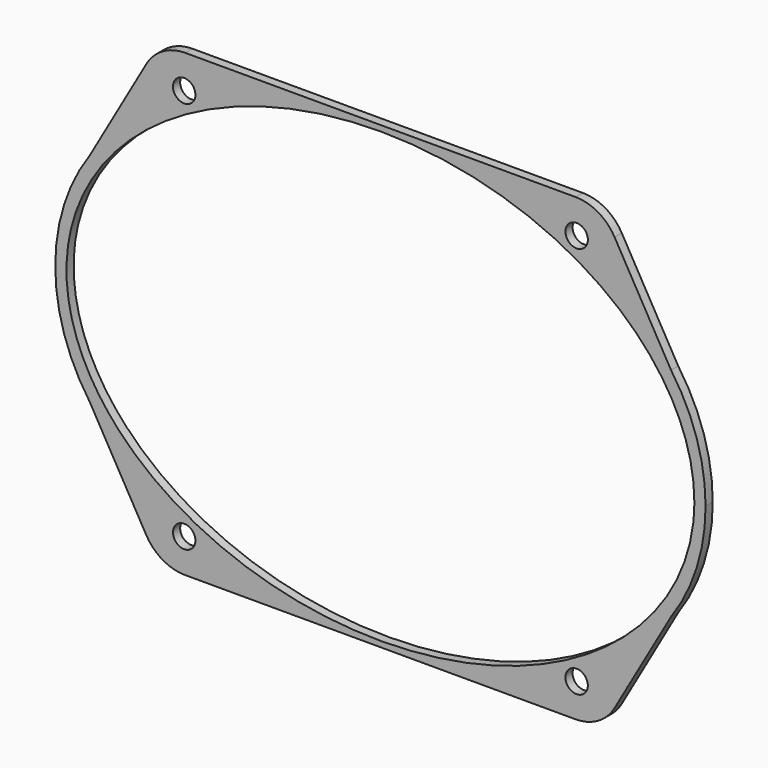
from build123d import *

# Parameters (mm, degrees)
F0_R     = 3.175
F1_DEPTH = 2.54


with BuildPart() as f1:
    # F0 (on Front) → F1 (new body)
    with BuildSketch(Plane.XZ):
        with BuildLine():
            Line((-66.30255, 58.706309), (-82.301346, 30.738717))
            ThreePointArc((-82.301346, 30.738717), (-89.572768, 16.127562), (-92.075, 0))
            ThreePointArc((-92.075, 0), (-89.572768, -16.127562), (-82.301346, -30.738717))
            Line((-82.301346, -30.738717), (-66.30255, -58.706309))
            ThreePointArc((-66.30255, -58.706309), (-61.650711, -63.386045), (-55.278803, -65.1002))
            Line((-55.278803, -65.1002), (0, -65.1002))
            Line((0, -65.1002), (55.278803, -65.1002))
            ThreePointArc((55.278803, -65.1002), (61.650711, -63.386045), (66.30255, -58.706309))
            Line((66.30255, -58.706309), (82.301346, -30.738717))
            ThreePointArc((82.301346, -30.738717), (89.572768, -16.127562), (92.075, 0))
            ThreePointArc((92.075, 0), (89.572768, 16.127562), (82.301346, 30.738717))
            Line((82.301346, 30.738717), (66.30255, 58.706309))
            ThreePointArc((66.30255, 58.706309), (61.650711, 63.386045), (55.278803, 65.1002))
            Line((55.278803, 65.1002), (0, 65.1002))
            Line((0, 65.1002), (-55.278803, 65.1002))
            ThreePointArc((-55.278803, 65.1002), (-61.650711, 63.386045), (-66.30255, 58.706309))
        make_face()
        with Locations((-55.5625, -55.5625)):
            Circle(F0_R, mode=Mode.SUBTRACT)
        with Locations((55.5625, -55.5625)):
            Circle(F0_R, mode=Mode.SUBTRACT)
        with Locations((-55.5625, 55.5625)):
            Circle(F0_R, mode=Mode.SUBTRACT)
        with BuildLine():
            add(Edge.make_bspline(
                [(88.9, 0), (88.9, 109.985226), (-44.45, 54.992613), (-177.8, 0), (-44.45, -54.992613), (88.9, -109.985226), (88.9, 0)],
                knots=[0, 0, 0, 2.094395, 2.094395, 4.18879, 4.18879, 6.283185, 6.283185, 6.283185], degree=2, weights=[1, 0.5, 1, 0.5, 1, 0.5, 1]))
        make_face(mode=Mode.SUBTRACT)
        with Locations((55.5625, 55.5625)):
            Circle(F0_R, mode=Mode.SUBTRACT)
    extrude(amount=F1_DEPTH)


solid = f1.part
